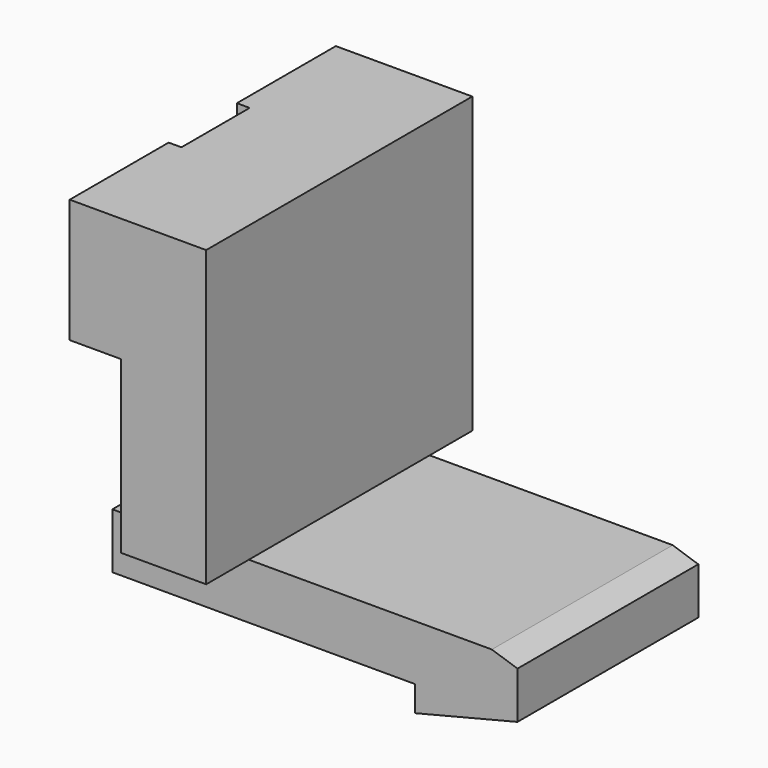
from build123d import *

# Parameters (mm, degrees)
PAD_DEPTH       = 3.9
SKETCH001_W     = 2.4
SKETCH001_H     = 1.25
POCKET_DEPTH    = 9.501
POCKET001_DEPTH = 1.2
SKETCH003_W     = 0.3
SKETCH003_H     = 2
POCKET002_DEPTH = 8.801


with BuildPart() as part:
    # Sketch → Pad (new body, symmetric)
    with BuildSketch(Plane.XZ):
        Polygon((-3.2, 4), (-3.2, 6.9), (0, 6.9), (0, 0), (5.7, 0), (6.3, -0.2), (6.3, -1.3), (3.9, -1.9), (3.9, -1.3), (-3.2, -1.3), (-3.2, 0), (-2, 0), (-2, 4), align=None)
    extrude(amount=PAD_DEPTH, both=True)

    # Sketch001 → Pocket (cut, through all)
    with BuildSketch(Plane(origin=(-3.2, 0, 0), x_dir=(0, 0, -1), z_dir=(-1, 0, 0))):
        with Locations((1.2, 3.275)):
            Rectangle(SKETCH001_W, SKETCH001_H)
        with Locations((1.2, -3.275)):
            Rectangle(SKETCH001_W, SKETCH001_H)
    extrude(amount=-POCKET_DEPTH, mode=Mode.SUBTRACT)

    # Sketch002 → Pocket001 (cut)
    with BuildSketch(Plane(origin=(-3.2, 0, 0), x_dir=(0, 0, -1), z_dir=(-1, 0, 0))):
        Polygon((-5.4, 2.7), (-4, 2.7), (-4, 4.9), (0, 4.9), (0, 1), (1.3, 1), (1.3, -1), (0, -1), (0, -4.9), (-4, -4.9), (-4, -2.7), (-5.4, -2.7), align=None)
    extrude(amount=-POCKET001_DEPTH, mode=Mode.SUBTRACT)

    # Sketch003 → Pocket002 (cut, through all)
    with BuildSketch(Plane(origin=(0, 0, 6.9), x_dir=(-1, 0, 0), z_dir=(0, 0, 1))):
        with Locations((3.05, 0)):
            Rectangle(SKETCH003_W, SKETCH003_H)
    extrude(amount=-POCKET002_DEPTH, mode=Mode.SUBTRACT)


solid = part.part
